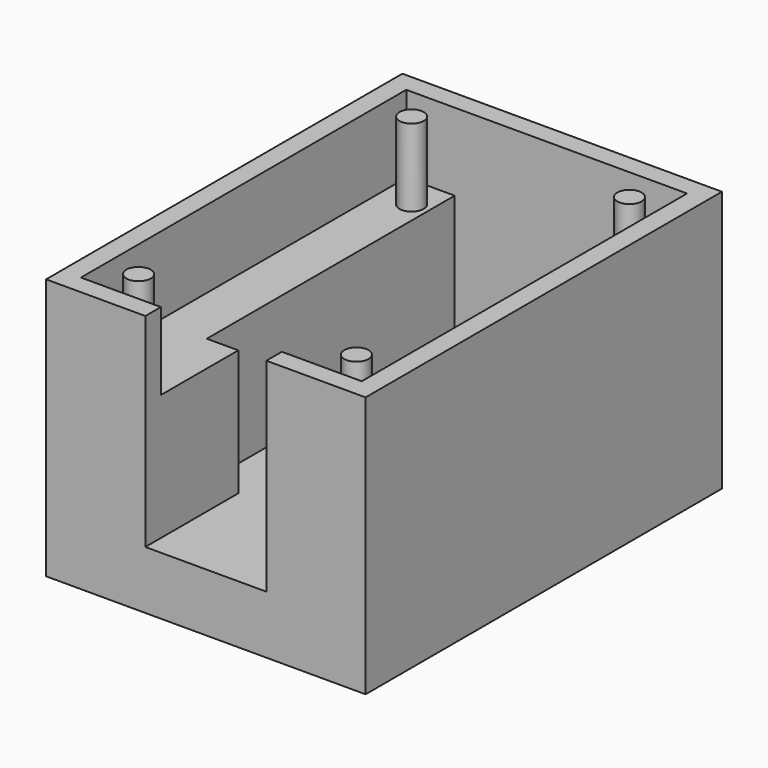
from build123d import *

# Parameters (mm, degrees)
F0_R     = 1.25
F0_W     = 12.5
F0_H     = 10
F0_W_2   = 19
F0_H_2   = 2
F0_W_3   = 3.25
F1_DEPTH = 6
F2_DEPTH = 21
F3_DEPTH = 13


with BuildPart() as f1:
    # F0 (on Top) → F1 (new body)
    with BuildSketch(Plane.XY):
        Polygon((9.5, 0), (9.5, 21), (-9.5, 21), (-9.5, 0), (-9.5, -11), (-6.25, -11), (6.25, -11), (9.5, -11), align=None)
        Polygon((14.5, -21), (14.5, 21), (9.5, 21), (9.5, 0), (9.5, -11), (9.5, -21), align=None)
        with Locations((11.25, -17.625)):
            Circle(F0_R, mode=Mode.SUBTRACT)
        with Locations((11.25, 17.625)):
            Circle(F0_R, mode=Mode.SUBTRACT)
        Polygon((-9.5, 0), (-9.5, 21), (-14.5, 21), (-14.5, -21), (-9.5, -21), (-9.5, -11), align=None)
        with Locations((-11.25, -17.625)):
            Circle(F0_R, mode=Mode.SUBTRACT)
        with Locations((-11.25, 17.625)):
            Circle(F0_R, mode=Mode.SUBTRACT)
        with Locations((0, -16)):
            Rectangle(F0_W, F0_H)
        Polygon((9.5, 21), (14.5, 21), (14.5, -21), (9.5, -21), (9.5, -23), (16.5, -23), (16.5, 23), (9.5, 23), align=None)
        Polygon((-14.5, 21), (-9.5, 21), (-9.5, 23), (-16.5, 23), (-16.5, -23), (-9.5, -23), (-9.5, -21), (-14.5, -21), align=None)
        with Locations((0, 22)):
            Rectangle(F0_W_2, F0_H_2)
        with Locations((7.875, -16)):
            Rectangle(F0_W_3, F0_H)
        with Locations((-7.875, -16)):
            Rectangle(F0_W_3, F0_H)
        with Locations((0, -22)):
            Rectangle(F0_W, F0_H_2)
        with Locations((7.875, -22)):
            Rectangle(F0_W_3, F0_H_2)
        with Locations((-7.875, -22)):
            Rectangle(F0_W_3, F0_H_2)
        with Locations((-11.25, 17.625)):
            Circle(F0_R)
        with Locations((11.25, 17.625)):
            Circle(F0_R)
        with Locations((-11.25, -17.625)):
            Circle(F0_R)
        with Locations((11.25, -17.625)):
            Circle(F0_R)
    extrude(amount=-F1_DEPTH)

    # F0 (on Top) → F2 (join)
    with BuildSketch(Plane.XY):
        Polygon((9.5, 21), (14.5, 21), (14.5, -21), (9.5, -21), (9.5, -23), (16.5, -23), (16.5, 23), (9.5, 23), align=None)
        Polygon((-14.5, 21), (-9.5, 21), (-9.5, 23), (-16.5, 23), (-16.5, -23), (-9.5, -23), (-9.5, -21), (-14.5, -21), align=None)
        with Locations((11.25, -17.625)):
            Circle(F0_R)
        with Locations((11.25, 17.625)):
            Circle(F0_R)
        with Locations((-11.25, 17.625)):
            Circle(F0_R)
        with Locations((-11.25, -17.625)):
            Circle(F0_R)
        with Locations((0, 22)):
            Rectangle(F0_W_2, F0_H_2)
        with Locations((-7.875, -22)):
            Rectangle(F0_W_3, F0_H_2)
        with Locations((7.875, -22)):
            Rectangle(F0_W_3, F0_H_2)
    extrude(amount=F2_DEPTH)

    # F0 (on Top) → F3 (join)
    with BuildSketch(Plane.XY):
        Polygon((14.5, -21), (14.5, 21), (9.5, 21), (9.5, 0), (9.5, -11), (9.5, -21), align=None)
        with Locations((11.25, -17.625)):
            Circle(F0_R, mode=Mode.SUBTRACT)
        with Locations((11.25, 17.625)):
            Circle(F0_R, mode=Mode.SUBTRACT)
        Polygon((-9.5, 0), (-9.5, 21), (-14.5, 21), (-14.5, -21), (-9.5, -21), (-9.5, -11), align=None)
        with Locations((-11.25, -17.625)):
            Circle(F0_R, mode=Mode.SUBTRACT)
        with Locations((-11.25, 17.625)):
            Circle(F0_R, mode=Mode.SUBTRACT)
        with Locations((-7.875, -16)):
            Rectangle(F0_W_3, F0_H)
        with Locations((-7.875, -22)):
            Rectangle(F0_W_3, F0_H_2)
        with Locations((7.875, -22)):
            Rectangle(F0_W_3, F0_H_2)
        with Locations((7.875, -16)):
            Rectangle(F0_W_3, F0_H)
    extrude(amount=F3_DEPTH)


solid = f1.part
